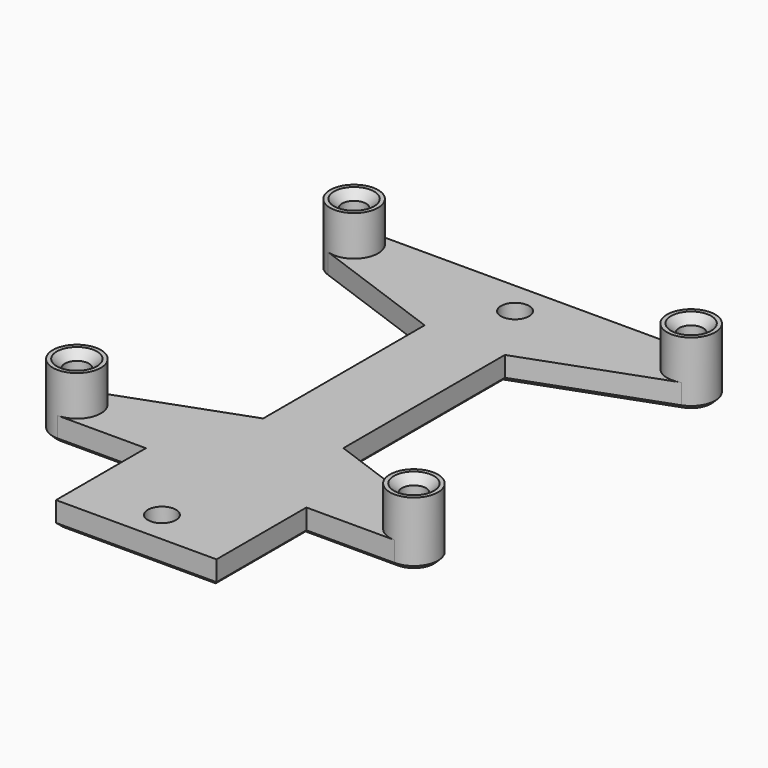
from build123d import *

# Parameters (mm, degrees)
CYLINDER005_R     = 3
CYLINDER005_DEPTH = 8
PAD011_DEPTH      = 3
CYLINDER006_R     = 3
CYLINDER006_DEPTH = 8
SKETCH039_R       = 1.5
POCKET027_DEPTH   = 10
CHAMFER026_SIZE   = 1
SKETCH038_R       = 1.75
POCKET026_DEPTH   = 5
CHAMFER025_SIZE   = 0.5


with BuildPart() as keypadbracketscrewcylinder002:
    # Cylinder005 → Cylinder005 (new body)
    with BuildSketch(Plane(origin=(21, 13.5, 18), x_dir=(1, 0, 0), z_dir=(0, 0, 1))):
        Circle(CYLINDER005_R)
    extrude(amount=CYLINDER005_DEPTH)


with BuildPart() as keypadbracketpad008:
    # Sketch037 → Pad011 (new body)
    with BuildSketch(Plane.XY.offset(18)):
        with BuildLine():
            Line((0, -3.5), (10, -3.5))
            Line((10, -3.5), (10, 10.5))
            Line((10, 10.5), (21, 10.5))
            ThreePointArc((21, 10.5), (23.954423, 12.979055), (22.02606, 16.319078))
            Line((22.02606, 16.319078), (5, 22.516057))
            Line((5, 22.516057), (5, 47.663943))
            Line((5, 47.663943), (22.02606, 53.860922))
            ThreePointArc((22.02606, 53.860922), (23.954423, 57.200945), (21, 59.68))
            Line((21, 59.68), (0, 59.68))
            Line((0, 59.68), (0, -3.5))
        make_face()
    extrude(amount=PAD011_DEPTH)


with BuildPart() as keypadbracketscrewholeschamfer019:
    # Cylinder006 → Cylinder006 (new body)
    with BuildSketch(Plane(origin=(21, 56.68, 18), x_dir=(1, 0, 0), z_dir=(0, 0, 1))):
        Circle(CYLINDER006_R)
    extrude(amount=CYLINDER006_DEPTH)

    # Fusion005: union KeypadBracketScrewCylinder002, KeypadBracketPad008
    add(keypadbracketscrewcylinder002.part)
    add(keypadbracketpad008.part)

    # Sketch039 → Pocket027 (cut)
    with BuildSketch(Plane.XY.offset(26)):
        with Locations((21, 13.5)):
            Circle(SKETCH039_R)
        with Locations((21, 56.68)):
            Circle(SKETCH039_R)
    extrude(amount=-POCKET027_DEPTH, mode=Mode.SUBTRACT)

    # Chamfer026
    chamfer026_edges = [keypadbracketscrewholeschamfer019.edges().sort_by_distance(p)[0] for p in [
        (19.5, 56.68, 26),
        (19.5, 13.5, 26),
    ]]
    chamfer(chamfer026_edges, length=CHAMFER026_SIZE)


with BuildPart() as keypadbracketprintingchamfer019_final001:
    # Part__Mirroring005: instance of KeypadBracketScrewHolesChamfer019
    add(keypadbracketscrewholeschamfer019.part.mirror(Plane(origin=(0, 0, 0), x_dir=(0, -1, 0), z_dir=(1, 0, 0))))

    # Fusion006: union KeypadBracketScrewHolesChamfer019
    add(keypadbracketscrewholeschamfer019.part)

    # Sketch038 → Pocket026 (cut)
    with BuildSketch(Plane.XY.offset(21)):
        with Locations((0, 0.5)):
            Circle(SKETCH038_R)
        with Locations((0, 55.5)):
            Circle(SKETCH038_R)
    extrude(amount=-POCKET026_DEPTH, mode=Mode.SUBTRACT)

    # Chamfer025
    chamfer025_edges = [keypadbracketprintingchamfer019_final001.edges().sort_by_distance(p)[0] for p in [
        (-21, 15, 18),
        (-21, 12, 18),
        (0, 57.25, 18),
        (0, 53.75, 18),
        (0, 2.25, 18),
        (0, -1.25, 18),
        (-23.12132, 58.80132, 18),
        (-23.457456, 54.959271, 18),
        (0, 59.68, 18),
        (-13.51303, 50.762433, 18),
        (23.12132, 58.80132, 18),
        (-5, 35.09, 18),
        (23.457456, 54.959271, 18),
        (-13.51303, 19.417567, 18),
        (13.51303, 50.762433, 18),
        (-23.457456, 15.220729, 18),
        (5, 35.09, 18),
        (-23.12132, 11.37868, 18),
        (13.51303, 19.417567, 18),
        (-15.5, 10.5, 18),
        (23.457456, 15.220729, 18),
        (-10, 3.5, 18),
        (23.12132, 11.37868, 18),
        (0, -3.5, 18),
        (15.5, 10.5, 18),
        (10, 3.5, 18),
        (-21, 58.18, 18),
        (-21, 55.18, 18),
        (21, 58.18, 18),
        (21, 55.18, 18),
        (21, 15, 18),
        (21, 12, 18),
    ]]
    chamfer(chamfer025_edges, length=CHAMFER025_SIZE)


solid = keypadbracketprintingchamfer019_final001.part
